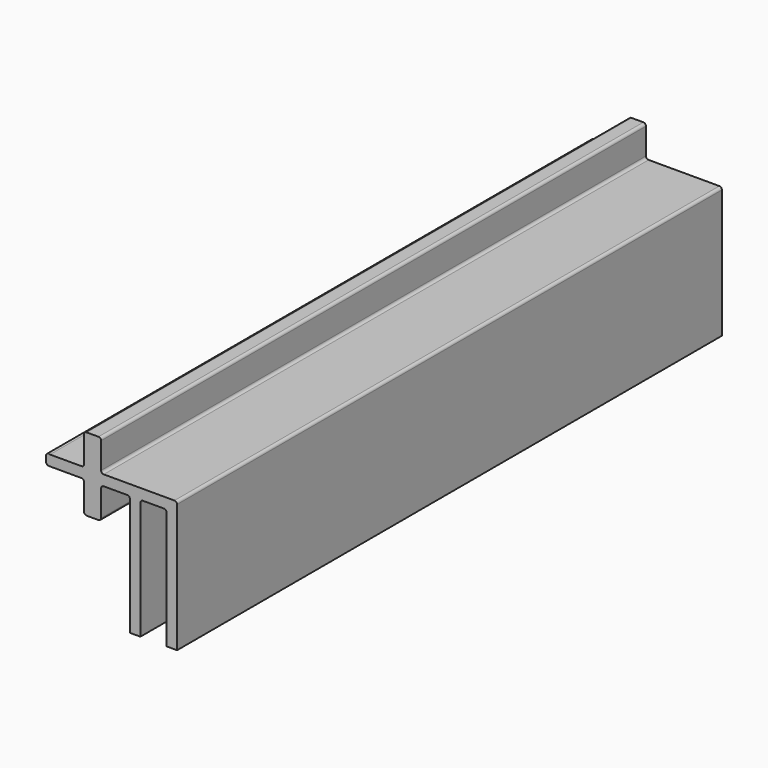
from build123d import *

# Parameters (mm, degrees)
F1_DEPTH = 130


with BuildPart() as f1:
    # F0 (on Front) → F1 (new body)
    with BuildSketch(Plane.XZ):
        with BuildLine():
            Line((-2, 0), (0, 0))
            Line((0, 0), (0, 24.5))
            ThreePointArc((0, 24.5), (-0.146447, 24.853553), (-0.5, 25))
            Line((-0.5, 25), (-13.995, 25))
            ThreePointArc((-13.995, 25), (-14.348553, 25.146447), (-14.495, 25.5))
            Line((-14.495, 25.5), (-14.495, 30.5))
            ThreePointArc((-14.495, 30.5), (-14.641447, 30.853553), (-14.995, 31))
            Line((-14.995, 31), (-17.245, 31))
            ThreePointArc((-17.245, 31), (-17.598553, 30.853553), (-17.745, 30.5))
            Line((-17.745, 30.5), (-17.745, 25.5))
            ThreePointArc((-17.745, 25.5), (-17.891447, 25.146447), (-18.245, 25))
            Line((-18.245, 25), (-24.25953, 25))
            ThreePointArc((-24.25953, 25), (-24.754721, 24.991876), (-25, 24.561623))
            Line((-25, 24.561623), (-25, 23.5))
            ThreePointArc((-25, 23.5), (-24.853553, 23.146447), (-24.5, 23))
            Line((-24.5, 23), (-18.245, 23))
            ThreePointArc((-18.245, 23), (-17.891447, 22.853553), (-17.745, 22.5))
            Line((-17.745, 22.5), (-17.745, 17.5))
            ThreePointArc((-17.745, 17.5), (-17.598553, 17.146447), (-17.245, 17))
            Line((-17.245, 17), (-14.995, 17))
            ThreePointArc((-14.995, 17), (-14.641447, 17.146447), (-14.495, 17.5))
            Line((-14.495, 17.5), (-14.495, 22.5))
            ThreePointArc((-14.495, 22.5), (-14.348553, 22.853553), (-13.995, 23))
            Line((-13.995, 23), (-9.495, 23))
            ThreePointArc((-9.495, 23), (-9.141447, 22.853553), (-8.995, 22.5))
            Line((-8.995, 22.5), (-8.995, 0))
            Line((-8.995, 0), (-6.995, 0))
            Line((-6.995, 0), (-6.995, 22.5))
            ThreePointArc((-6.995, 22.5), (-6.848553, 22.853553), (-6.495, 23))
            Line((-6.495, 23), (-2.5, 23))
            ThreePointArc((-2.5, 23), (-2.146447, 22.853553), (-2, 22.5))
            Line((-2, 22.5), (-2, 0))
        make_face()
    extrude(amount=F1_DEPTH)


solid = f1.part
